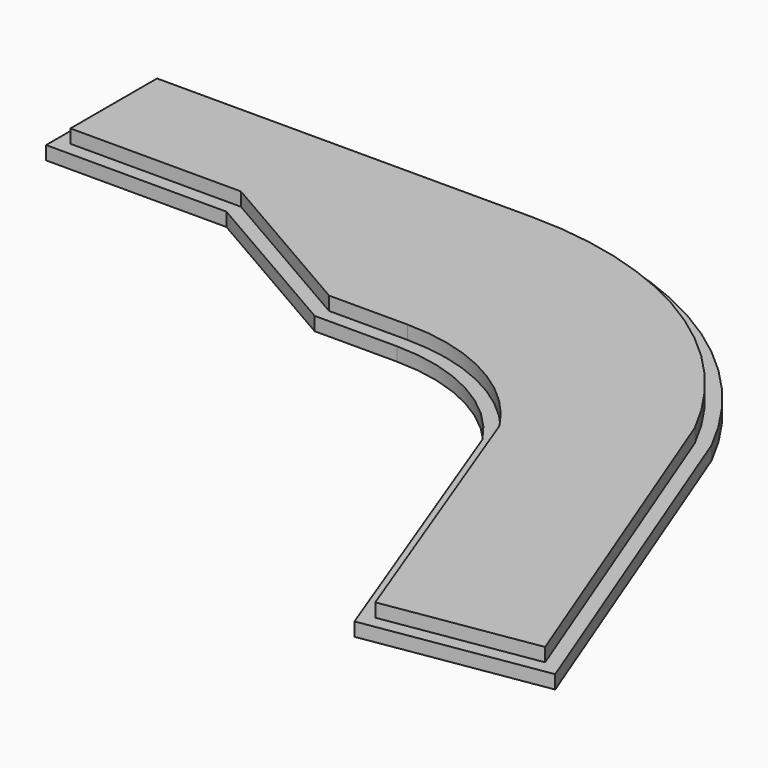
from build123d import *

# Parameters (mm, degrees)
F1_DEPTH = 3
F3_DEPTH = 3


with BuildPart() as f1:
    # F0 (on Top) → F1 (new body)
    with BuildSketch(Plane.XY):
        with BuildLine():
            Line((-26.049673, 52.928504), (-112.191005, 52.928504))
            Line((-112.191005, 52.928504), (-112.191005, 22.928504))
            Line((-112.191005, 22.928504), (-72.191005, 22.928504))
            Line((-72.191005, 22.928504), (-35.867805, 1.957295))
            Line((-35.867805, 1.957295), (-17.654659, 1.957295))
            ThreePointArc((-17.654659, 1.957295), (1.351351, -2.846519), (15.792295, -16.104127))
            Line((15.792295, -16.104127), (41.093565, -83.207551))
            Line((41.093565, -83.207551), (80.600171, -76.944318))
            Line((80.600171, -76.944318), (48.117351, 6.989384))
            ThreePointArc((48.117351, 6.989384), (17.57128, 40.513403), (-26.049673, 52.928504))
        make_face()
    extrude(amount=F1_DEPTH)

    # F2 (on face) → F3 (join)
    with BuildSketch(Plane.XY.offset(3)):
        with BuildLine():
            Line((-35.063957, 4.957295), (-17.654659, 4.957295))
            ThreePointArc((-17.654659, 4.957295), (2.924994, -0.287204), (18.484649, -14.741409))
            Line((18.484649, -14.741409), (43.038213, -79.861787))
            Line((43.038213, -79.861787), (76.46174, -74.562943))
            Line((76.46174, -74.562943), (45.370091, 5.776055))
            ThreePointArc((45.370091, 5.776055), (15.933126, 37.999173), (-26.049673, 49.928504))
            Line((-26.049673, 49.928504), (-109.191005, 49.928504))
            Line((-109.191005, 49.928504), (-109.191005, 25.928504))
            Line((-109.191005, 25.928504), (-71.387158, 25.928504))
            Line((-71.387158, 25.928504), (-35.063957, 4.957295))
        make_face()
    extrude(amount=F3_DEPTH)


solid = f1.part
